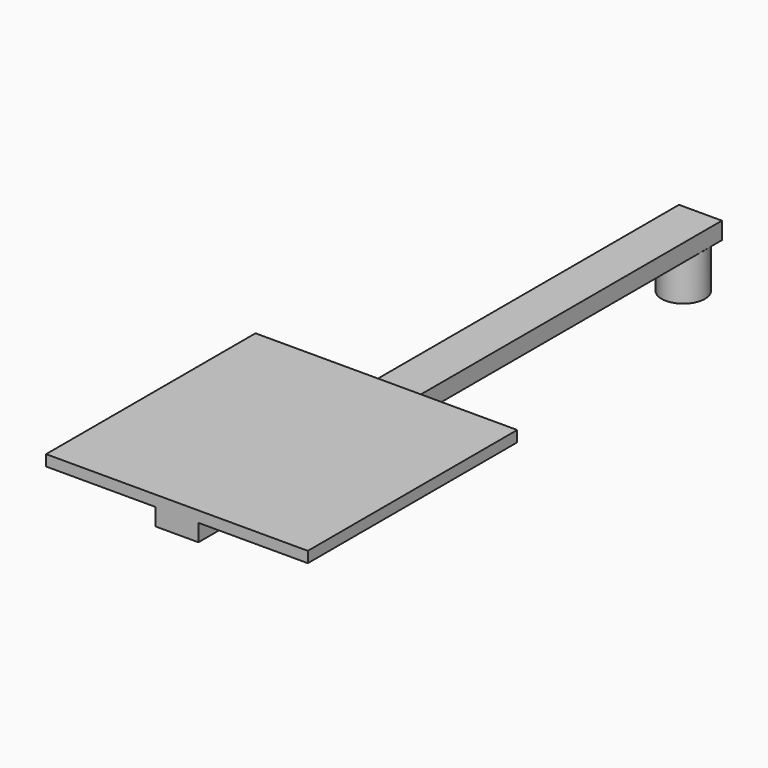
from build123d import *

# Parameters (mm, degrees)
F0_W     = 50
F0_H     = 20
F1_DEPTH = 381
F2_R     = 25.220427
F3_DEPTH = 50
F5_DEPTH = 12.7


with BuildPart() as f1:
    # F0 (on Front) → F1 (new body, symmetric)
    with BuildSketch(Plane.XZ):
        Rectangle(F0_W, F0_H)
    extrude(amount=F1_DEPTH, both=True)

    # F2 (on face) → F3 (join)
    with BuildSketch(Plane(origin=(0, 0, -10), x_dir=(1, 0, 0), z_dir=(0, 0, -1))):
        with Locations((0, -356)):
            Circle(F2_R)
    extrude(amount=F3_DEPTH)

    # F4 (on face) → F5 (join)
    with BuildSketch(Plane.XY.offset(10)):
        Polygon((-152.4, -76.2), (-152.4, -381), (0, -381), (152.4, -381), (152.4, -76.2), align=None)
    extrude(amount=F5_DEPTH)


solid = f1.part
